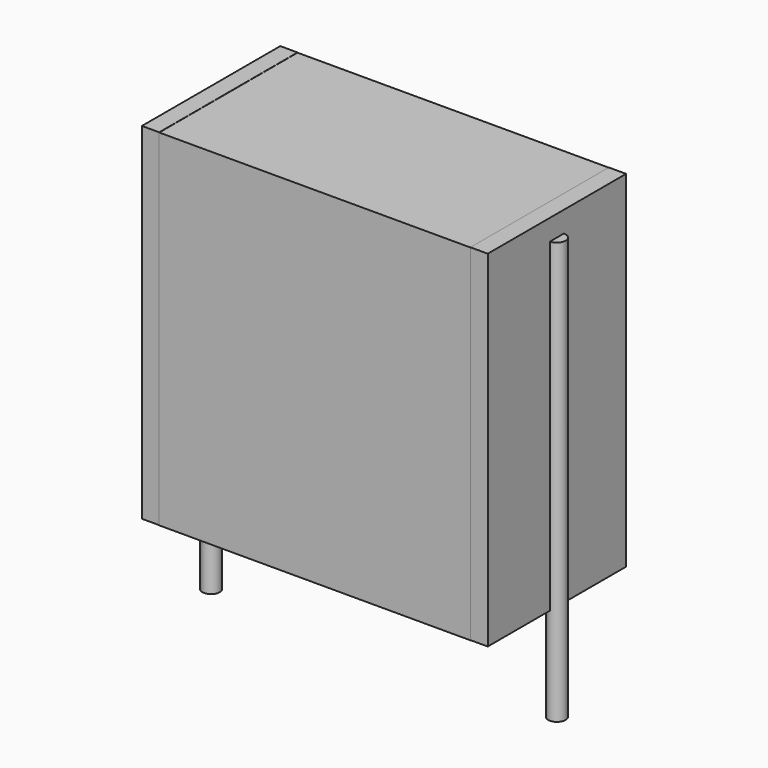
from build123d import *

# Parameters (mm, degrees)
SKETCH_W          = 9
SKETCH_H          = 5
PAD_DEPTH         = 10
SKETCH001_R       = 0.25
PAD001_DEPTH      = 9
PAD001_DEPTH_BACK = 3.2
SKETCH002_W       = 0.5
SKETCH002_H       = 5
PAD002_DEPTH      = 10


with BuildPart() as pad:
    # Sketch → Pad (new body)
    with BuildSketch(Plane.XY.offset(0.1)):
        with Locations((5, 0)):
            Rectangle(SKETCH_W, SKETCH_H)
    extrude(amount=PAD_DEPTH)


with BuildPart() as pad001:
    # Sketch001 → Pad001 (new body, two sides)
    with BuildSketch(Plane.XY.offset(0.5)) as pad001_sk:
        Circle(SKETCH001_R)
        with Locations((10, 0)):
            Circle(SKETCH001_R)
    extrude(amount=PAD001_DEPTH)
    extrude(pad001_sk.sketch, amount=-PAD001_DEPTH_BACK)


with BuildPart() as pad002:
    # Sketch002 → Pad002 (new body)
    with BuildSketch(Plane.XY.offset(0.105)):
        with Locations((0.25, 0)):
            Rectangle(SKETCH002_W, SKETCH002_H)
        with Locations((9.75, 0)):
            Rectangle(SKETCH002_W, SKETCH002_H)
    extrude(amount=PAD002_DEPTH)


solid = Compound([pad.part, pad001.part, pad002.part])
